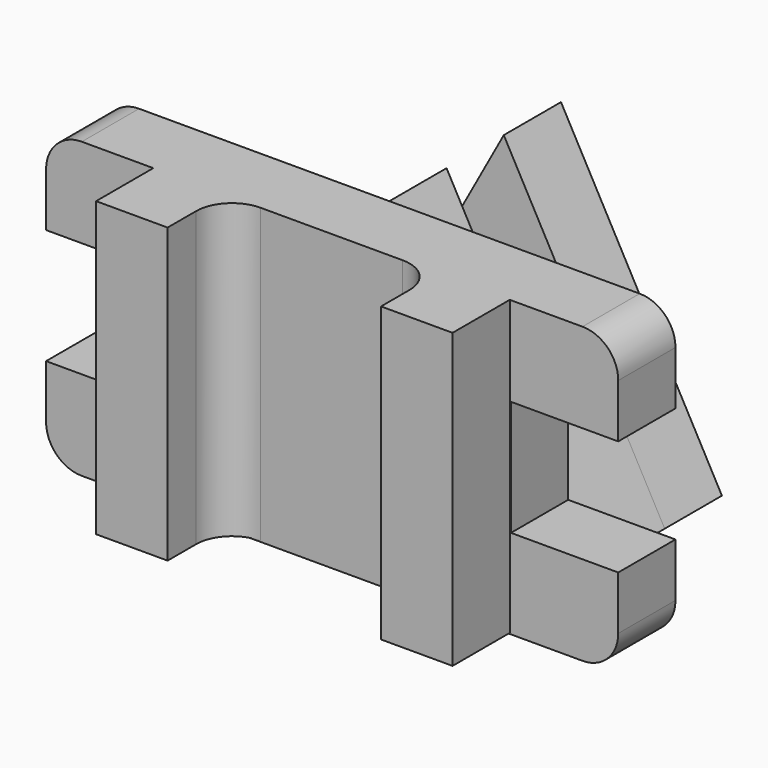
from build123d import *

# Parameters (mm, degrees)
F1_DEPTH  = 25.4
F3_DEPTH  = 25.4
F5_DEPTH  = 25.4
F7_DEPTH  = 25.4
F9_DEPTH  = 25.4
F10_W     = 25.4
F10_H     = 31.75
F11_DEPTH = 25.4
F12_W     = 25.4
F12_H     = 31.75
F12_H_2   = 31.756058
F13_DEPTH = 25.4
F14_W     = 12.7
F14_H     = 19.05
F15_DEPTH = 25.4
F16_W     = 12.7
F16_H     = 19.05
F17_DEPTH = 25.4
F18_W     = 25.4
F18_H     = 25.4
F19_DEPTH = 104.14
F21_DEPTH = 104.14
F23_DEPTH = 104.14


with BuildPart() as f1:
    # F0 (on Front) → F1 (new body)
    with BuildSketch(Plane.XZ):
        Polygon((57.15, 104.473576), (0, 0), (57.15, 0), (57.15, 53.673576), align=None)
        Polygon((57.15, 53.673576), (57.15, 0), (114.3, 0), (57.15, 104.473576), align=None)
    extrude(amount=F1_DEPTH)

    # F2 (on face) → F3 (join)
    with BuildSketch(Plane.XZ.offset(25.4)):
        Polygon((86.422825, 50.961122), (57.15, 50.961122), (27.877175, 50.961122), (0, 0), (114.3, 0), align=None)
    extrude(amount=F3_DEPTH)

    # F4 (on face) → F5 (join)
    with BuildSketch(Plane.XZ.offset(50.8)):
        Polygon((86.422825, 50.961122), (27.877175, 50.961122), (0, 0), (114.3, 0), align=None)
    extrude(amount=F5_DEPTH)

    # F6 (on face) → F7 (join)
    with BuildSketch(Plane.XZ.offset(76.2)):
        Polygon((27.877175, 50.961122), (57.15, 50.961122), (57.15, 104.473576), align=None)
        Polygon((57.15, 104.473576), (57.15, 50.961122), (86.422825, 50.961122), align=None)
    extrude(amount=-F7_DEPTH)

    # F8 (on face) → F9 (join)
    with BuildSketch(Plane.XZ.offset(76.2)):
        Polygon((120.65897, 104.473576), (57.15, 104.473576), (-6.34103, 104.473576), (-6.34103, 0), (120.65897, 0), align=None)
    extrude(amount=F9_DEPTH)

    # F10 (on face) → F11 (join)
    with BuildSketch(Plane.XZ.offset(101.6)):
        with Locations((133.35897, 88.598576)):
            Rectangle(F10_W, F10_H)
        with Locations((133.35897, 15.875)):
            Rectangle(F10_W, F10_H)
    extrude(amount=-F11_DEPTH)

    # F12 (on face) → F13 (join)
    with BuildSketch(Plane.XZ.offset(101.6)):
        with Locations((-19.04103, 15.875)):
            Rectangle(F12_W, F12_H)
        with Locations((-19.04103, 88.595547)):
            Rectangle(F12_W, F12_H_2)
    extrude(amount=-F13_DEPTH)

    # F14 (on face) → F15 (join)
    with BuildSketch(Plane.XZ.offset(101.6)):
        with Locations((-38.09103, 22.225)):
            Rectangle(F14_W, F14_H)
        with BuildLine():
            Line((-31.74103, 0), (-31.74103, 12.7))
            Line((-31.74103, 12.7), (-44.44103, 12.7))
            ThreePointArc((-44.44103, 12.7), (-40.721286, 3.719744), (-31.74103, 0))
        make_face()
        with Locations((-38.09103, 82.242518)):
            Rectangle(F14_W, F14_H)
        with BuildLine():
            Line((-44.44103, 91.767518), (-31.74103, 91.767518))
            Line((-31.74103, 91.767518), (-31.74103, 104.473576))
            ThreePointArc((-31.74103, 104.473576), (-40.723428, 100.75169), (-44.44103, 91.767518))
        make_face()
    extrude(amount=-F15_DEPTH)

    # F16 (on face) → F17 (join)
    with BuildSketch(Plane.XZ.offset(101.6)):
        with Locations((152.40897, 82.248576)):
            Rectangle(F16_W, F16_H)
        with BuildLine():
            Line((146.05897, 104.473576), (146.05897, 91.773576))
            Line((146.05897, 91.773576), (158.75897, 91.773576))
            ThreePointArc((158.75897, 91.773576), (155.039226, 100.753832), (146.05897, 104.473576))
        make_face()
        with Locations((152.40897, 22.225)):
            Rectangle(F16_W, F16_H)
        with BuildLine():
            Line((158.75897, 12.7), (146.05897, 12.7))
            Line((146.05897, 12.7), (146.05897, 0))
            ThreePointArc((146.05897, 0), (155.039226, 3.719744), (158.75897, 12.7))
        make_face()
    extrude(amount=-F17_DEPTH)

    # F18 (on face) → F19 (join)
    with BuildSketch(Plane.XY.offset(104.473576)):
        with Locations((107.532152, -114.3)):
            Rectangle(F18_W, F18_H)
        with Locations((6.33521, -114.3)):
            Rectangle(F18_W, F18_H)
    extrude(amount=-F19_DEPTH)

    # F20 (on face) → F21 (join)
    with BuildSketch(Plane(origin=(0, 0, 0.333576), x_dir=(1, 0, 0), z_dir=(0, 0, -1))):
        with BuildLine():
            Line((19.03521, 114.3), (19.03521, 101.6))
            Line((19.03521, 101.6), (31.73521, 101.6))
            ThreePointArc((31.73521, 101.6), (22.754954, 105.319744), (19.03521, 114.3))
        make_face()
    extrude(amount=-F21_DEPTH)

    # F22 (on face) → F23 (join)
    with BuildSketch(Plane.XY.offset(104.473576)):
        with BuildLine():
            Line((94.832152, -114.3), (94.832152, -101.6))
            Line((94.832152, -101.6), (82.132152, -101.6))
            ThreePointArc((82.132152, -101.6), (91.112408, -105.319744), (94.832152, -114.3))
        make_face()
    extrude(amount=-F23_DEPTH)


solid = f1.part
